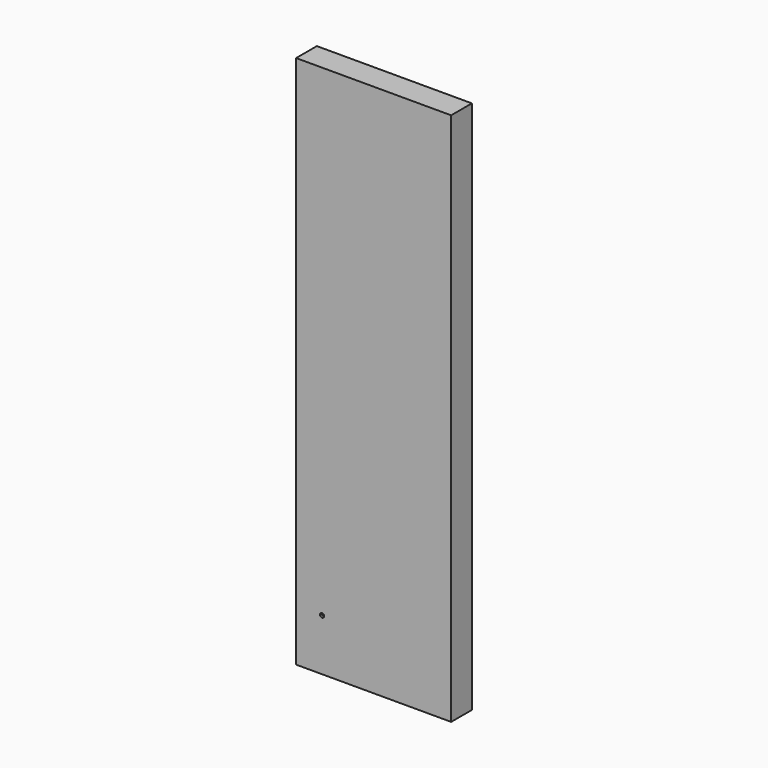
from build123d import *

# Parameters (mm, degrees)
F0_W     = 299
F0_H     = 1030
F1_DEPTH = 50
F3_D     = 8
F3_DEPTH = 4
F3_TIP   = 2.4034424761


with BuildPart() as f1:
    # F0 (on Front) → F1 (new body)
    with BuildSketch(Plane.XZ):
        with Locations((-115.9527252316, 448.8373243809)):
            Rectangle(F0_W, F0_H)
    extrude(amount=F1_DEPTH)

    # F3
    with Locations(Plane.XZ.offset(50)):
        with Locations((-215.4527252316, 33.8373243809)):
            Hole(F3_D / 2, depth=F3_DEPTH)
            with Locations((0, 0, -(F3_DEPTH + F3_TIP / 2))):  # 118° drill point
                Cone(0, F3_D / 2, F3_TIP, mode=Mode.SUBTRACT)


solid = f1.part
